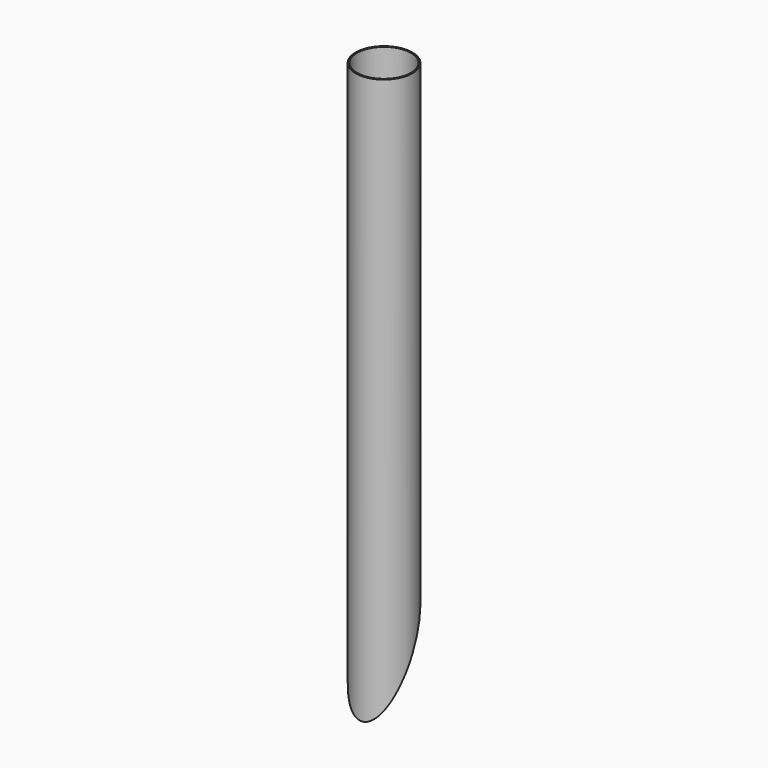
from build123d import *

# Parameters (mm, degrees)
F1_R     = 20
F1_R_2   = 19
F5_DEPTH = 40.001


with BuildPart() as f2:
    # F2: sweep along a path in F0
    with BuildLine(Plane.YZ) as f2_path:
        Line((0, 0), (0, -400))
    # F1 (on Top) → F2 (sweep)
    with BuildSketch(Plane.XY):
        Circle(F1_R)
        Circle(F1_R_2, mode=Mode.SUBTRACT)
    sweep(path=f2_path.line)

    # F4 (on offset) → F5 (cut, through all)
    with BuildSketch(Plane.YZ.offset(20)):
        Polygon((20, -400), (20, -320), (-20, -400), align=None)
    extrude(amount=-F5_DEPTH, mode=Mode.SUBTRACT)


solid = f2.part
